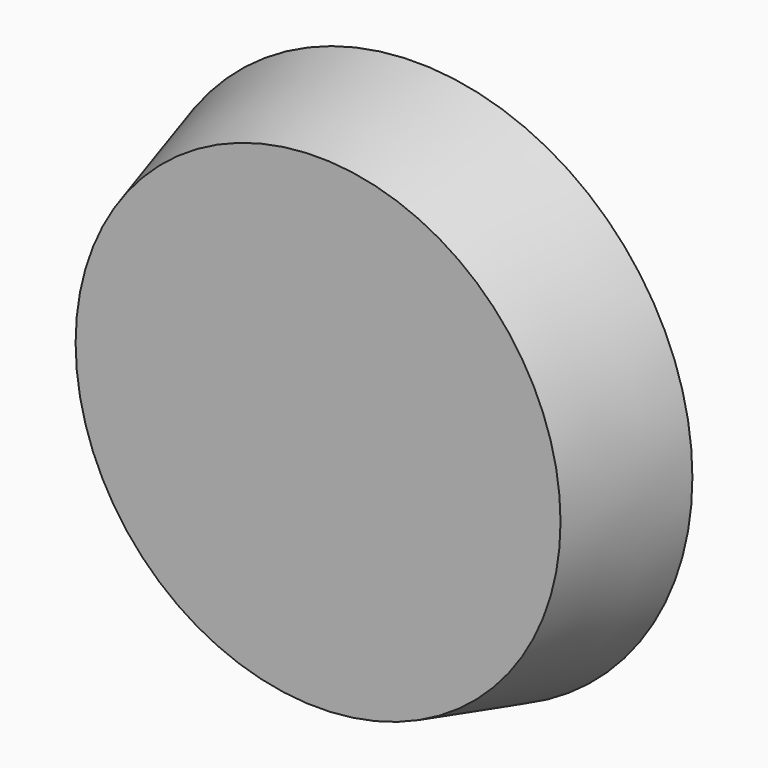
from build123d import *


with BuildPart() as part:
    # Sketch → Revolution (revolve)
    with BuildSketch(Plane.XY):
        Polygon((0, 0), (25.5, 0), (29, 12.960992), (4, 12.960992), (4, 17.960992), (7, 17.960992), (7, 20.960992), (0, 20.960992), align=None)
    revolve(axis=Axis((0, 0, 0), (0, 1, 0)))


solid = part.part
